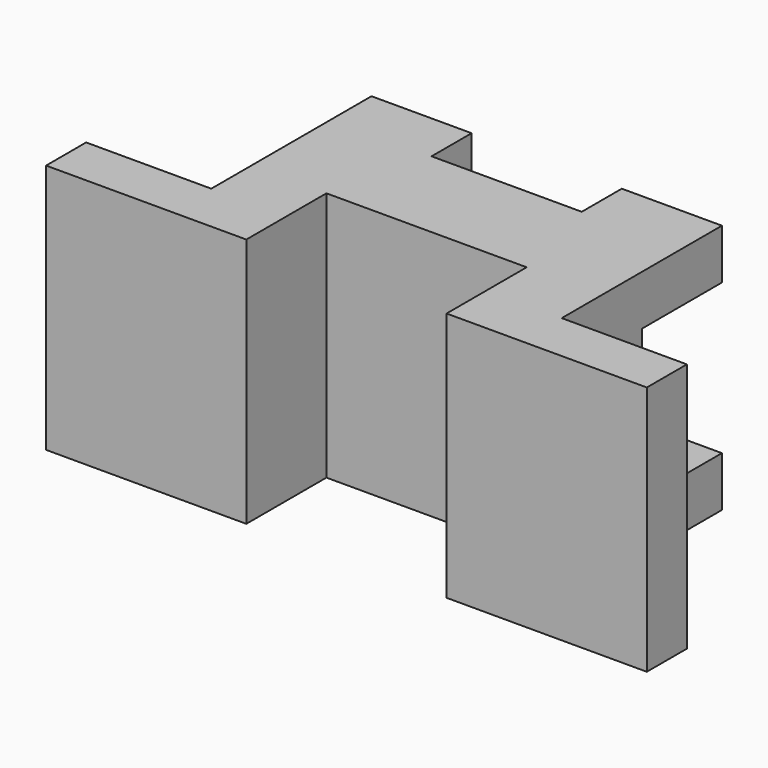
from build123d import *

# Parameters (mm, degrees)
F2_DEPTH = 25
F3_W     = 50
F3_H     = 30
F3_W_2   = 20
F4_DEPTH = 20


with BuildPart() as f2:
    # F1 (on Top) → F2 (new body, symmetric)
    with BuildSketch(Plane.XY):
        Polygon((-47.5447639587, -20.5795816187), (-47.5447639587, -30.5795816187), (-7.5447639587, -30.5795816187), (-7.5447639587, -10.5795816187), (32.4552360413, -10.5795816187), (32.4552360413, -30.5795816187), (72.4552360413, -30.5795816187), (72.4552360413, -20.5795816187), (47.4552360413, -20.5795816187), (47.4552360413, 19.4204183813), (27.4552360413, 19.4204183813), (27.4552360413, 9.4204183813), (-2.5447639587, 9.4204183813), (-2.5447639587, 19.4204183813), (-22.5447639587, 19.4204183813), (-22.5447639587, -20.5795816187), align=None)
    extrude(amount=F2_DEPTH, both=True)

    # F3 (on face) → F4 (cut)
    with BuildSketch(Plane(origin=(0, 19.4204183813, 0), x_dir=(-1, 0, 0), z_dir=(0, 1, 0))):
        with Locations((-2.4552360413, 0)):
            Rectangle(F3_W, F3_H)
        with Locations((-37.4552360413, 0)):
            Rectangle(F3_W_2, F3_H)
    extrude(amount=-F4_DEPTH, mode=Mode.SUBTRACT)


solid = f2.part
